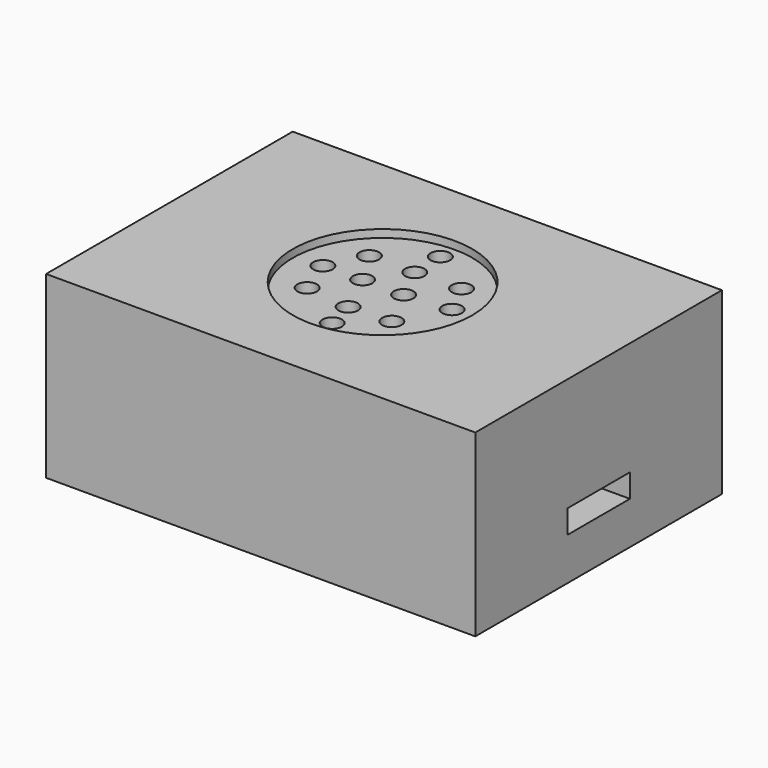
from build123d import *

# Parameters (mm, degrees)
SKETCH_W        = 55
SKETCH_H        = 39.5
PAD_DEPTH       = 23
SKETCH002_W     = 10
SKETCH002_H     = 3
POCKET_DEPTH    = 5
SKETCH003_R     = 11.5
POCKET001_DEPTH = 1
SKETCH004_R     = 1.25
POCKET002_DEPTH = 4
SKETCH005_R     = 1.5
SKETCH005_R_2   = 1.15
POCKET003_DEPTH = 5


with BuildPart() as part:
    # Sketch → Pad (new body)
    with BuildSketch(Plane.XY):
        with Locations((8.244135, 0.838188)):
            Rectangle(SKETCH_W, SKETCH_H)
    extrude(amount=PAD_DEPTH)

    # Sketch002 (on Face3 of Pad) → Pocket (cut)
    with BuildSketch(Plane.YZ.offset(35.744135)):
        with Locations((0.852094, 6.951404)):
            Rectangle(SKETCH002_W, SKETCH002_H)
    extrude(amount=-POCKET_DEPTH, mode=Mode.SUBTRACT)

    # Sketch003 (on Face5 of Pocket) → Pocket001 (cut)
    with BuildSketch(Plane.XY.offset(23)):
        with Locations((8.142509, 0.739769)):
            Circle(SKETCH003_R)
    extrude(amount=-POCKET001_DEPTH, mode=Mode.SUBTRACT)

    # Sketch004 (on Face12 of Pocket001) → Pocket002 (cut)
    with BuildSketch(Plane.XY.offset(22)):
        with Locations((2.355179, 5.854206)):
            Circle(SKETCH004_R)
        with Locations((8.142534, 5.893073)):
            Circle(SKETCH004_R)
        with Locations((13.992255, 6.068044)):
            Circle(SKETCH004_R)
        with Locations((0.067154, 1.278166)):
            Circle(SKETCH004_R)
        with Locations((5.046978, 1.412754)):
            Circle(SKETCH004_R)
        with Locations((10.295966, 1.412754)):
            Circle(SKETCH004_R)
        with Locations((1.82863, -3.450897)):
            Circle(SKETCH004_R)
        with Locations((7.604173, -4.105418)):
            Circle(SKETCH004_R)
        with Locations((12.987754, -3.836237)):
            Circle(SKETCH004_R)
        with Locations((8.547656, -7.839936)):
            Circle(SKETCH004_R)
        with Locations((8.00794, 10.161071)):
            Circle(SKETCH004_R)
        with Locations((16.083309, 1.951109)):
            Circle(SKETCH004_R)
    extrude(amount=-POCKET002_DEPTH, mode=Mode.SUBTRACT)

    # Sketch005 (on Face1 of Pocket002) → Pocket003 (cut)
    with BuildSketch(Plane(origin=(-19.255865, 0, 0), x_dir=(0, -1, 0), z_dir=(-1, 0, 0))):
        with Locations((-14.325696, 5.317757)):
            Circle(SKETCH005_R)
        with Locations((-14.325696, 5.317757)):
            Circle(SKETCH005_R_2, mode=Mode.SUBTRACT)
    extrude(amount=-POCKET003_DEPTH, mode=Mode.SUBTRACT)


solid = part.part
